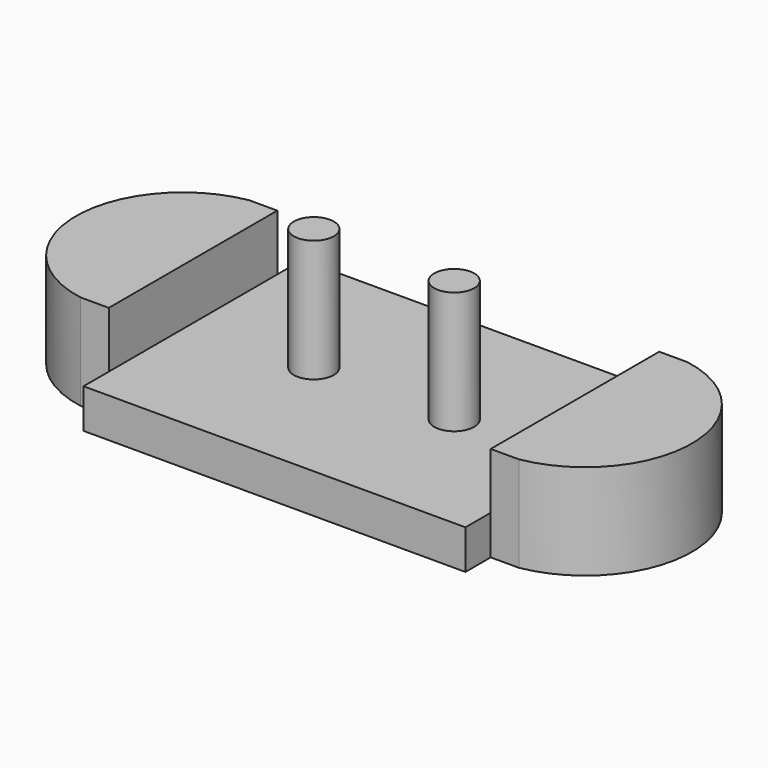
from build123d import *

# Parameters (mm, degrees)
F1_DEPTH = 6.8
F2_W     = 27.2
F2_H     = 19.5
F3_DEPTH = 4
F4_R     = 3.3
F5_DEPTH = 3.8
F6_R     = 1.425
F7_DEPTH = 8.7


with BuildPart() as f1:
    # F0 (on Top) → F1 (new body)
    with BuildSketch(Plane.XY):
        with BuildLine():
            Line((13.6, 7.5), (13.6, 9.75))
            Line((13.6, 9.75), (-13.6, 9.75))
            Line((-13.6, 9.75), (-13.6, 7.5))
            Line((-13.6, 7.5), (-15.6, 7.5))
            ThreePointArc((-15.6, 7.5), (-21.931769, 0), (-15.6, -7.5))
            Line((-15.6, -7.5), (-13.6, -7.5))
            Line((-13.6, -7.5), (-13.6, -9.75))
            Line((-13.6, -9.75), (13.6, -9.75))
            Line((13.6, -9.75), (13.6, -7.5))
            Line((13.6, -7.5), (15.6, -7.5))
            ThreePointArc((15.6, -7.5), (21.931769, 0), (15.6, 7.5))
            Line((15.6, 7.5), (13.6, 7.5))
        make_face()
    extrude(amount=F1_DEPTH)

    # F2 (on face) → F3 (cut)
    with BuildSketch(Plane.XY.offset(6.8)):
        Rectangle(F2_W, F2_H)
    extrude(amount=-F3_DEPTH, mode=Mode.SUBTRACT)

    # F4 (on Top) → F5 (cut)
    with BuildSketch(Plane.XY):
        with Locations((17.65, 0)):
            Circle(F4_R)
        with Locations((-17.65, 0)):
            Circle(F4_R)
    extrude(amount=F5_DEPTH, mode=Mode.SUBTRACT)

    # F6 (on face) → F7 (join)
    with BuildSketch(Plane.XY.offset(2.8)):
        with Locations((5, 0)):
            Circle(F6_R)
        with Locations((-5, 0)):
            Circle(F6_R)
    extrude(amount=F7_DEPTH)


solid = f1.part
